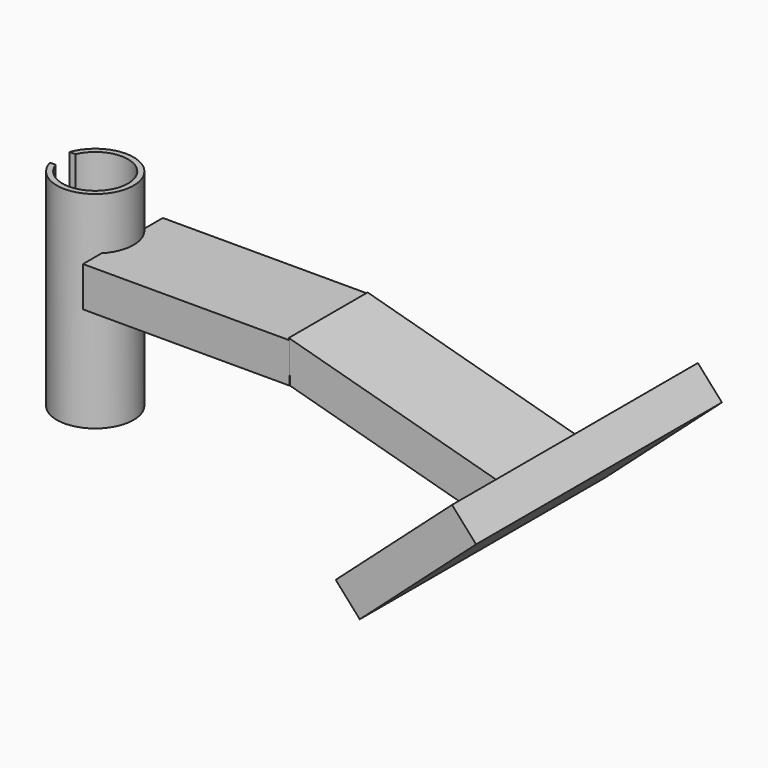
from build123d import *

# Parameters (mm, degrees)
F1_DEPTH      = 101.6
F2_W          = 49.1289459169
F2_H          = 19.6515806019
F3_DEPTH      = 101.6
F5_DEPTH      = 24.384
F5_DEPTH_BACK = 24.13
F6_W          = 76.7547786236
F6_H          = 151.2725003281
F7_DEPTH      = 17.78


with BuildPart() as f1:
    # F0 (on Top) → F1 (new body)
    with BuildSketch(Plane.XY):
        with BuildLine():
            ThreePointArc((-28.4708873967, 6.4422843053), (2.5342810256, -0.6612460253), (-28.9474863047, -5.2086560369))
            Line((-28.9474863047, -5.2086560369), (-31.8002136599, -5.2086560369))
            ThreePointArc((-31.8002136599, -5.2086560369), (5.2598383056, -0.6484164442), (-31.4002926231, 6.4422843053))
            Line((-31.4002926231, 6.4422843053), (-28.4708873967, 6.4422843053))
        make_face()
    extrude(amount=F1_DEPTH)


with BuildPart() as f3:
    # F2 (on Right) → F3 (new body)
    with BuildSketch(Plane.YZ):
        with Locations((-1.8626e-06, 66.039999947)):
            Rectangle(F2_W, F2_H)
    extrude(amount=F3_DEPTH)

    # F4 (on Front) → F5 (join, two sides)
    with BuildSketch(Plane.XZ) as f5_sk:
        Polygon((101.1604294181, 76.6693279147), (101.7576307058, 56.1712905765), (186.7493391037, 32.6881110668), (204.1463260814, 48.2143604374), align=None)
    extrude(amount=F5_DEPTH)
    extrude(f5_sk.sketch, amount=-F5_DEPTH_BACK)

    # F6 (on face) → F7 (join)
    with BuildSketch(Plane(origin=(66.5586422689, 0, -74.5782065698), x_dir=(0.7460819854, 0, 0.6658540914), z_dir=(0.6658540914, 0, -0.7460819854))):
        with Locations((170.8016097546, 0.127)):
            Rectangle(F6_W, F6_H)
    extrude(amount=F7_DEPTH)


solid = Compound([f1.part, f3.part])
